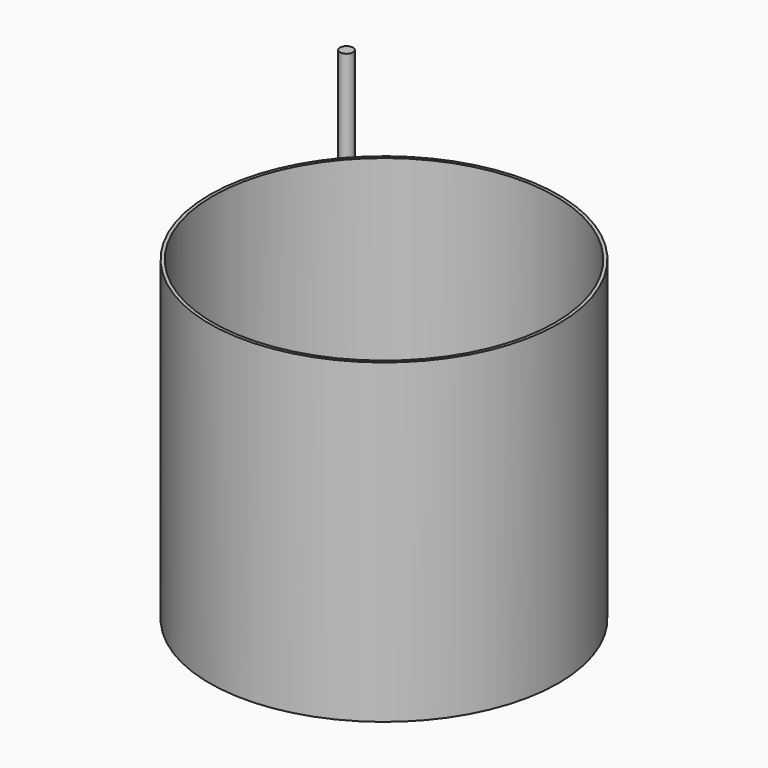
from build123d import *

# Parameters (mm, degrees)
F0_R     = 53.5
F1_DEPTH = 97
F2_T     = -1
F3_DEPTH = 1.001
F4_R     = 2
F5_DEPTH = 110


with BuildPart() as f1:
    # F0 (on Top) → F1 (new body)
    with BuildSketch(Plane.XY):
        Circle(F0_R)
    extrude(amount=F1_DEPTH)

    # F2
    f2_openings = [f1.faces().sort_by_distance(p)[0] for p in [
        (0, 0, 97),
    ]]
    offset(amount=F2_T, openings=f2_openings)

    # F3 (cut, through all): a face of the model
    f3_faces = [f1.faces().sort_by_distance(p)[0] for p in [
        (0, 0, 1),
    ]]
    extrude(f3_faces, amount=-F3_DEPTH, mode=Mode.SUBTRACT)


with BuildPart() as f5:
    # F4 (on Top) → F5 (new body)
    with BuildSketch(Plane.XY):
        with Locations((-59.2270195484, 59.6657395363)):
            Circle(F4_R)
    extrude(amount=F5_DEPTH)


solid = Compound([f1.part, f5.part])
